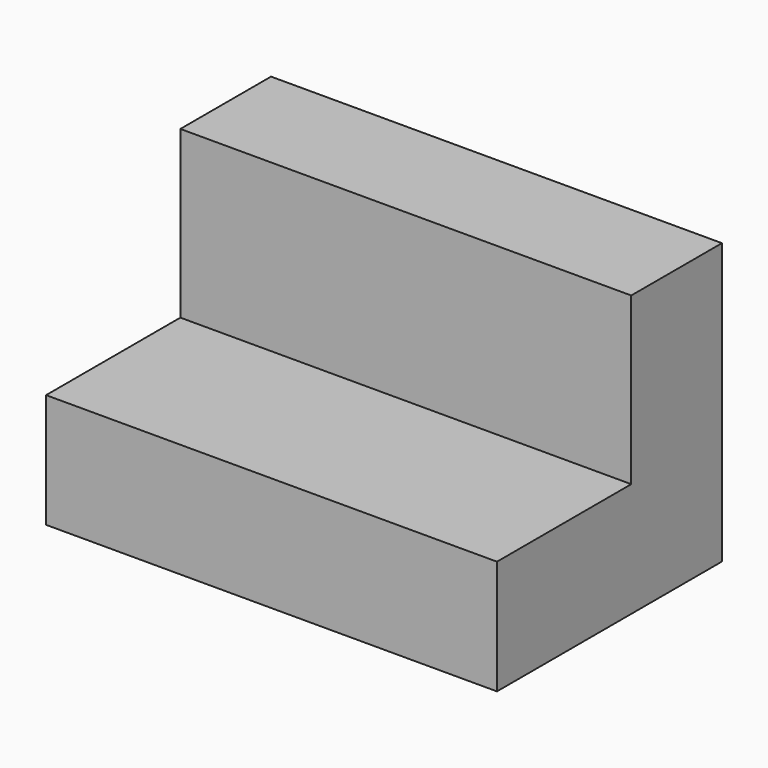
from build123d import *

# Parameters (mm, degrees)
F0_W     = 50.910949707
F0_H     = 31.6523090005
F1_DEPTH = 31.75
F2_W     = 18.9523072094
F2_H     = 18.7569241971
F3_DEPTH = 50.911949707


with BuildPart() as f1:
    # F0 (on Front) → F1 (new body)
    with BuildSketch(Plane.XZ):
        with Locations((-25.4554748535, 15.8261545002)):
            Rectangle(F0_W, F0_H)
    extrude(amount=F1_DEPTH)

    # F2 (on face) → F3 (cut, through all)
    with BuildSketch(Plane.YZ):
        with Locations((-22.2738463953, 22.273846902)):
            Rectangle(F2_W, F2_H)
    extrude(amount=-F3_DEPTH, mode=Mode.SUBTRACT)


solid = f1.part
